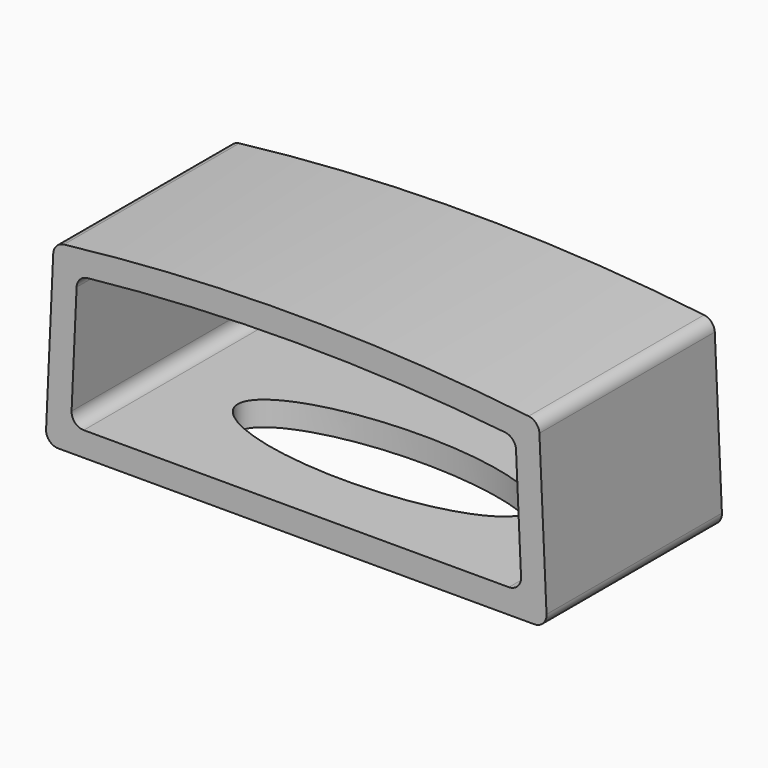
from build123d import *

# Parameters (mm, degrees)
F1_DEPTH = 9
F3_DEPTH = 1
F5_R     = 1.25
F6_DEPTH = 1.8
F6_TAPER = 3


with BuildPart() as f1:
    # F0 (on Front) → F1 (new body)
    with BuildSketch(Plane.XZ):
        with BuildLine():
            ThreePointArc((19.2296160725, 5.9711619501), (19.095977397, 6.2892762544), (18.7881142599, 6.4450847748))
            ThreePointArc((18.7881142599, 6.4450847748), (9.25, 7), (-0.2881142599, 6.4450847748))
            ThreePointArc((-0.2881142599, 6.4450847748), (-0.595977397, 6.2892762544), (-0.7296160725, 5.9711619501))
            Line((-0.7296160725, 5.9711619501), (-1.0227278052, -0.4772961695))
            ThreePointArc((-1.0227278052, -0.4772961695), (-0.8847348319, -0.8454331229), (-0.5232435351, -1))
            Line((-0.5232435351, -1), (19.0232435351, -1))
            ThreePointArc((19.0232435351, -1), (19.3847348319, -0.8454331229), (19.5227278052, -0.4772961695))
            Line((19.5227278052, -0.4772961695), (19.2296160725, 5.9711619501))
        make_face()
        with BuildLine():
            ThreePointArc((0.5232435351, 0), (0.1617522384, 0.1545668771), (0.023759265, 0.5227038305))
            Line((0.023759265, 0.5227038305), (0.2305442149, 5.0719727274))
            ThreePointArc((0.2305442149, 5.0719727274), (0.3659805058, 5.3920065063), (0.6772732434, 5.5464779923))
            ThreePointArc((0.6772732434, 5.5464779923), (9.25, 6), (17.8227267566, 5.5464779923))
            ThreePointArc((17.8227267566, 5.5464779923), (18.1340194942, 5.3920065063), (18.2694557851, 5.0719727274))
            Line((18.2694557851, 5.0719727274), (18.476240735, 0.5227038305))
            ThreePointArc((18.476240735, 0.5227038305), (18.3382477616, 0.1545668771), (17.9767564649, 0))
            Line((17.9767564649, 0), (0.5232435351, 0))
        make_face(mode=Mode.SUBTRACT)
    extrude(amount=F1_DEPTH)

    # F2 (on face) → F3 (cut, through all)
    with BuildSketch(Plane(origin=(0, 0, -1), x_dir=(1, 0, 0), z_dir=(0, 0, -1))):
        with BuildLine():
            add(Edge.make_bspline(
                [(15.25, 4.5), (15.25, 7.9641016151), (6.25, 6.2320508076), (-2.75, 4.5), (6.25, 2.7679491924), (15.25, 1.0358983849), (15.25, 4.5)],
                knots=[0, 0, 0, 2.0943951024, 2.0943951024, 4.1887902048, 4.1887902048, 6.2831853072, 6.2831853072, 6.2831853072], degree=2, weights=[1, 0.5, 1, 0.5, 1, 0.5, 1]))
        make_face()
    extrude(amount=-F3_DEPTH, mode=Mode.SUBTRACT)

    # F5 (on offset) → F6 (join)
    with BuildSketch(Plane(origin=(0, 0, 6), x_dir=(1, 0, 0), z_dir=(0, 0, -1))):
        with Locations((9.25, 4.5)):
            Circle(F5_R)
    extrude(amount=F6_DEPTH, taper=F6_TAPER)


solid = f1.part
